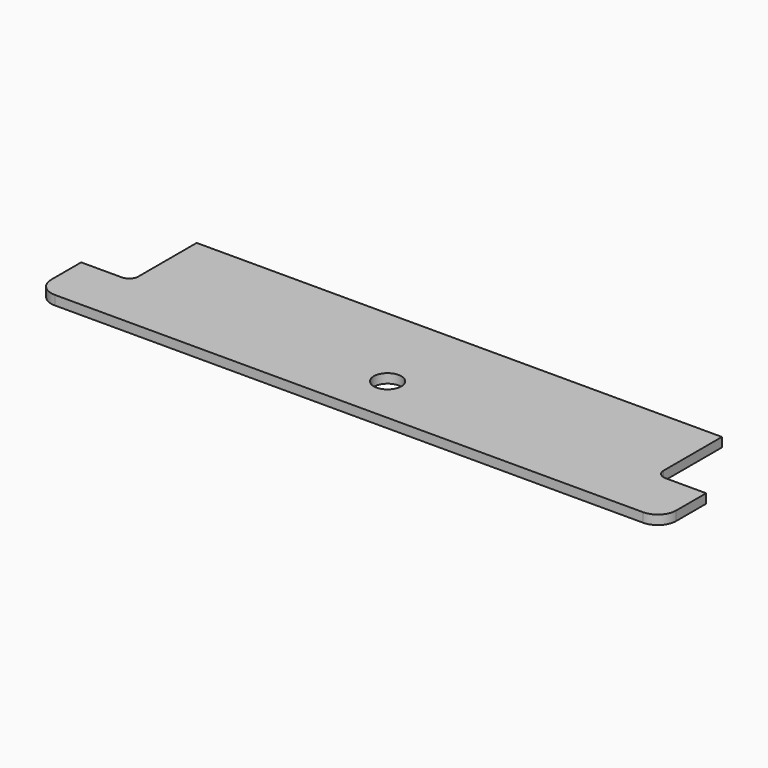
from build123d import *

# Parameters (mm, degrees)
CYLINDER079_R     = 1.5
CYLINDER079_DEPTH = 10
CYLINDER073_R     = 2.579687
CYLINDER073_DEPTH = 56.5
CYLINDER074_R     = 2.579687
CYLINDER074_DEPTH = 55.5
BOX003_W          = 6.35
BOX003_H          = 15
BOX003_DEPTH      = 10
FILLET002_R       = 1
BOX002_W          = 6.35
BOX002_H          = 15
BOX002_DEPTH      = 10
FILLET001_R       = 1
BOX001_W          = 68
BOX001_H          = 15
BOX001_DEPTH      = 1.01
FILLET_R          = 2


with BuildPart() as shieldcrosshole003:
    # Cylinder079 → Cylinder079 (new body)
    with BuildSketch(Plane(origin=(105, 175, 34), x_dir=(1, 0, 0), z_dir=(0, 0, 1))):
        Circle(CYLINDER079_R)
    extrude(amount=CYLINDER079_DEPTH)


with BuildPart() as threaded025:
    # Cylinder073 → Cylinder073 (new body)
    with BuildSketch(Plane(origin=(73.25, 179.75, 4), x_dir=(1, 0, 0), z_dir=(0, 0, 1))):
        Circle(CYLINDER073_R)
    extrude(amount=CYLINDER073_DEPTH)


with BuildPart() as threaded026:
    # Cylinder074 → Cylinder074 (new body)
    with BuildSketch(Plane(origin=(136.75, 179.75, 4), x_dir=(1, 0, 0), z_dir=(0, 0, 1))):
        Circle(CYLINDER074_R)
    extrude(amount=CYLINDER074_DEPTH)


with BuildPart() as fillet002:
    # Box003 → Box003 (new body)
    with BuildSketch(Plane(origin=(70.075, 175.825, 36), x_dir=(1, 0, 0), z_dir=(0, 0, 1))):
        with Locations((3.175, 7.5)):
            Rectangle(BOX003_W, BOX003_H)
    extrude(amount=BOX003_DEPTH)

    # Fillet002
    fillet002_edges = [fillet002.edges().sort_by_distance(p)[0] for p in [
        (70.075, 175.825, 41),
        (76.425, 175.825, 41),
    ]]
    fillet(fillet002_edges, radius=FILLET002_R)


with BuildPart() as fillet002_1:
    # Fillet002 placement: moved
    add(fillet002.part.moved(Location((63.5, 0, 0))))


with BuildPart() as fusion032:
    # Box002 → Box002 (new body)
    with BuildSketch(Plane(origin=(70.075, 175.825, 36), x_dir=(1, 0, 0), z_dir=(0, 0, 1))):
        with Locations((3.175, 7.5)):
            Rectangle(BOX002_W, BOX002_H)
    extrude(amount=BOX002_DEPTH)

    # Fillet001
    fillet001_edges = [fusion032.edges().sort_by_distance(p)[0] for p in [
        (70.075, 175.825, 41),
        (76.425, 175.825, 41),
    ]]
    fillet(fillet001_edges, radius=FILLET001_R)

    # Fusion032: union Threaded025, Threaded026, Fillet002
    add(threaded025.part)
    add(threaded026.part)
    add(fillet002_1.part)


with BuildPart() as shieldbar4:
    # Box001 → Box001 (new body)
    with BuildSketch(Plane(origin=(71, 169.75, 39), x_dir=(1, 0, 0), z_dir=(0, 0, 1))):
        with Locations((34, 7.5)):
            Rectangle(BOX001_W, BOX001_H)
    extrude(amount=BOX001_DEPTH)

    # Fillet
    fillet_edges = [shieldbar4.edges().sort_by_distance(p)[0] for p in [
        (71, 169.75, 39.505),
        (71, 184.75, 39.505),
        (139, 169.75, 39.505),
        (139, 184.75, 39.505),
    ]]
    fillet(fillet_edges, radius=FILLET_R)

    # Cut003: cut Fusion032
    add(fusion032.part, mode=Mode.SUBTRACT)

    # Cut007: cut ShieldCrossHole003
    add(shieldcrosshole003.part, mode=Mode.SUBTRACT)


solid = shieldbar4.part
